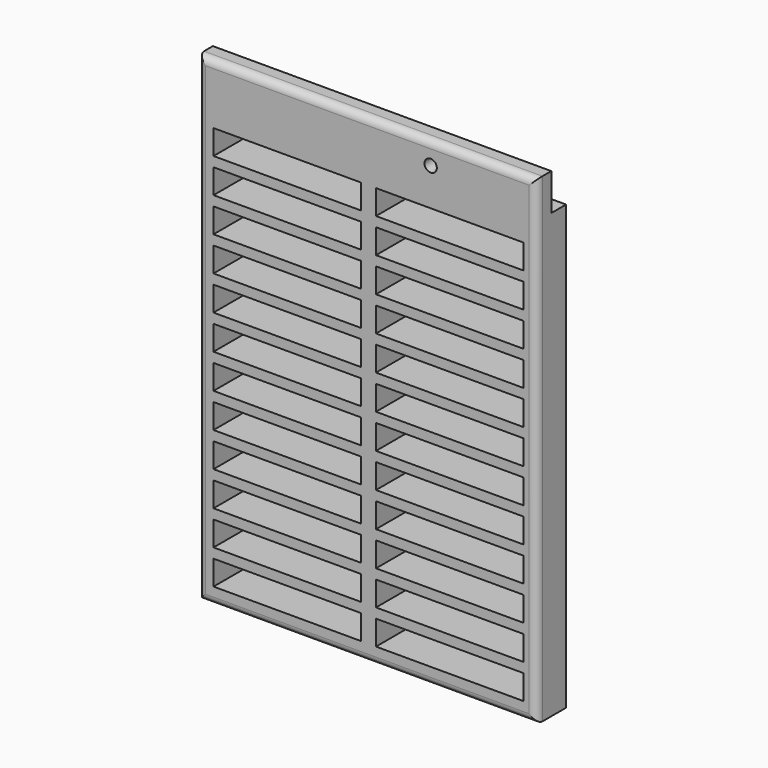
from build123d import *

# Parameters (mm, degrees)
F0_W     = 137.5
F0_H     = 195
F0_W_2   = 60
F0_H_2   = 10
F1_DEPTH = 15
F2_W     = 137.5
F2_H     = 15
F3_DEPTH = 7.5
F4_R     = 2.5
F5_DEPTH = 7.5
F6_R     = 3


with BuildPart() as f1:
    # F0 (on Front) → F1 (new body)
    with BuildSketch(Plane.XZ):
        with Locations((-1.555176, 3.066924)):
            Rectangle(F0_W, F0_H)
        with Locations((-34.030074, -82.667378)):
            Rectangle(F0_W_2, F0_H_2, mode=Mode.SUBTRACT)
        with Locations((-34.030074, -68.667378)):
            Rectangle(F0_W_2, F0_H_2, mode=Mode.SUBTRACT)
        with Locations((-34.030074, -54.667378)):
            Rectangle(F0_W_2, F0_H_2, mode=Mode.SUBTRACT)
        with Locations((-34.030074, -40.667378)):
            Rectangle(F0_W_2, F0_H_2, mode=Mode.SUBTRACT)
        with Locations((-34.030074, -26.667378)):
            Rectangle(F0_W_2, F0_H_2, mode=Mode.SUBTRACT)
        with Locations((-34.030074, -12.667378)):
            Rectangle(F0_W_2, F0_H_2, mode=Mode.SUBTRACT)
        with Locations((-34.030074, 1.332622)):
            Rectangle(F0_W_2, F0_H_2, mode=Mode.SUBTRACT)
        with Locations((31.969926, -82.667378)):
            Rectangle(F0_W_2, F0_H_2, mode=Mode.SUBTRACT)
        with Locations((31.969926, -68.667378)):
            Rectangle(F0_W_2, F0_H_2, mode=Mode.SUBTRACT)
        with Locations((31.969926, -54.667378)):
            Rectangle(F0_W_2, F0_H_2, mode=Mode.SUBTRACT)
        with Locations((31.969926, -40.667378)):
            Rectangle(F0_W_2, F0_H_2, mode=Mode.SUBTRACT)
        with Locations((31.969926, -26.667378)):
            Rectangle(F0_W_2, F0_H_2, mode=Mode.SUBTRACT)
        with Locations((31.969926, -12.667378)):
            Rectangle(F0_W_2, F0_H_2, mode=Mode.SUBTRACT)
        with Locations((31.969926, 1.332622)):
            Rectangle(F0_W_2, F0_H_2, mode=Mode.SUBTRACT)
        with Locations((-34.030074, 15.332622)):
            Rectangle(F0_W_2, F0_H_2, mode=Mode.SUBTRACT)
        with Locations((-34.030074, 29.332622)):
            Rectangle(F0_W_2, F0_H_2, mode=Mode.SUBTRACT)
        with Locations((-34.030074, 43.332622)):
            Rectangle(F0_W_2, F0_H_2, mode=Mode.SUBTRACT)
        with Locations((-34.030074, 57.332622)):
            Rectangle(F0_W_2, F0_H_2, mode=Mode.SUBTRACT)
        with Locations((-34.030074, 71.332622)):
            Rectangle(F0_W_2, F0_H_2, mode=Mode.SUBTRACT)
        with Locations((31.969926, 15.332622)):
            Rectangle(F0_W_2, F0_H_2, mode=Mode.SUBTRACT)
        with Locations((31.969926, 29.332622)):
            Rectangle(F0_W_2, F0_H_2, mode=Mode.SUBTRACT)
        with Locations((31.969926, 43.332622)):
            Rectangle(F0_W_2, F0_H_2, mode=Mode.SUBTRACT)
        with Locations((31.969926, 57.332622)):
            Rectangle(F0_W_2, F0_H_2, mode=Mode.SUBTRACT)
        with Locations((31.969926, 71.332622)):
            Rectangle(F0_W_2, F0_H_2, mode=Mode.SUBTRACT)
    extrude(amount=F1_DEPTH)

    # F2 (on Front) → F3 (cut)
    with BuildSketch(Plane.XZ):
        with Locations((-1.555176, 93.066924)):
            Rectangle(F2_W, F2_H)
    extrude(amount=F3_DEPTH, mode=Mode.SUBTRACT)

    # F4 (on face) → F5 (cut, through all)
    with BuildSketch(Plane.XZ.offset(15)):
        with Locations((24.194824, 91.566924)):
            Circle(F4_R)
    extrude(amount=-F5_DEPTH, mode=Mode.SUBTRACT)

    # F6
    f6_edges = [f1.edges().sort_by_distance(p)[0] for p in [
        (-1.555176, -15, 100.566924),
        (-70.305176, -15, 3.066924),
        (67.194824, -15, 3.066924),
        (-1.555176, -15, -94.433076),
    ]]
    fillet(f6_edges, radius=F6_R)


solid = f1.part
